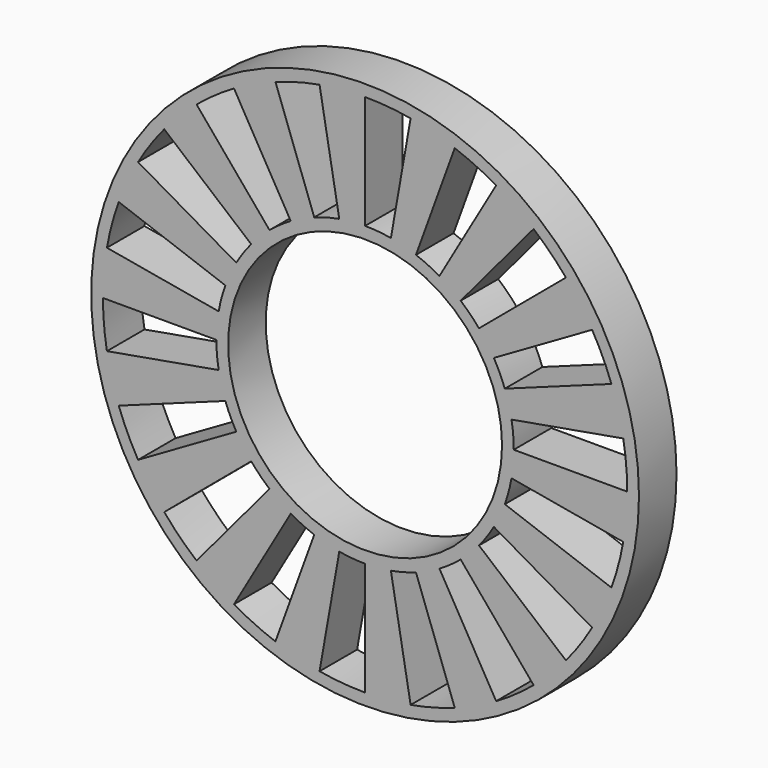
from build123d import *

# Parameters (mm, degrees)
F0_R     = 35
F0_R_2   = 17.5
F1_DEPTH = 6
F3_DEPTH = 6.001


with BuildPart() as f1:
    # F0 (on Front) → F1 (new body)
    with BuildSketch(Plane.XZ):
        Circle(F0_R)
        Circle(F0_R_2, mode=Mode.SUBTRACT)
    extrude(amount=F1_DEPTH)

    # F2 (on face) → F3 (cut, through all)
    with BuildSketch(Plane.XZ.offset(6)):
        with BuildLine():
            ThreePointArc((16.454483, -9.5), (15.563889, -10.897952), (14.554844, -12.212965))
            Line((14.554844, -12.212965), (25.662489, -21.533385))
            ThreePointArc((25.662489, -21.533385), (27.441593, -19.214811), (29.011851, -16.75))
            Line((29.011851, -16.75), (16.454483, -9.5))
        make_face()
        with BuildLine():
            ThreePointArc((18.711347, -3.299315), (18.352591, -4.917562), (17.85416, -6.498383))
            Line((17.85416, -6.498383), (31.479703, -11.457675))
            ThreePointArc((31.479703, -11.457675), (32.358515, -8.670438), (32.99106, -5.817214))
            Line((32.99106, -5.817214), (18.711347, -3.299315))
        make_face()
        with BuildLine():
            ThreePointArc((18.711347, 3.299315), (18.927699, 1.655959), (19, 0))
            Line((19, 0), (33.5, 0))
            ThreePointArc((33.5, 0), (33.372522, 2.919717), (32.99106, 5.817214))
            Line((32.99106, 5.817214), (18.711347, 3.299315))
        make_face()
        with BuildLine():
            ThreePointArc((16.454483, 9.5), (17.219848, 8.029747), (17.85416, 6.498383))
            Line((17.85416, 6.498383), (31.479703, 11.457675))
            ThreePointArc((31.479703, 11.457675), (30.361311, 14.157712), (29.011851, 16.75))
            Line((29.011851, 16.75), (16.454483, 9.5))
        make_face()
        with BuildLine():
            ThreePointArc((6.498383, 17.85416), (8.029747, 17.219848), (9.5, 16.454483))
            Line((9.5, 16.454483), (16.75, 29.011851))
            ThreePointArc((16.75, 29.011851), (14.157712, 30.361311), (11.457675, 31.479703))
            Line((11.457675, 31.479703), (6.498383, 17.85416))
        make_face()
        with BuildLine():
            ThreePointArc((12.212965, 14.554844), (13.435029, 13.435029), (14.554844, 12.212965))
            Line((14.554844, 12.212965), (25.662489, 21.533385))
            ThreePointArc((25.662489, 21.533385), (23.688077, 23.688077), (21.533385, 25.662489))
            Line((21.533385, 25.662489), (12.212965, 14.554844))
        make_face()
        with BuildLine():
            ThreePointArc((0, 19), (1.655959, 18.927699), (3.299315, 18.711347))
            Line((3.299315, 18.711347), (5.817214, 32.99106))
            ThreePointArc((5.817214, 32.99106), (2.919717, 33.372522), (0, 33.5))
            Line((0, 33.5), (0, 19))
        make_face()
        with BuildLine():
            ThreePointArc((-6.498383, 17.85416), (-4.917562, 18.352591), (-3.299315, 18.711347))
            Line((-3.299315, 18.711347), (-5.817214, 32.99106))
            ThreePointArc((-5.817214, 32.99106), (-8.670438, 32.358515), (-11.457675, 31.479703))
            Line((-11.457675, 31.479703), (-6.498383, 17.85416))
        make_face()
        with BuildLine():
            ThreePointArc((-12.212965, 14.554844), (-10.897952, 15.563889), (-9.5, 16.454483))
            Line((-9.5, 16.454483), (-16.75, 29.011851))
            ThreePointArc((-16.75, 29.011851), (-19.214811, 27.441593), (-21.533385, 25.662489))
            Line((-21.533385, 25.662489), (-12.212965, 14.554844))
        make_face()
        with BuildLine():
            ThreePointArc((-16.454483, 9.5), (-15.563889, 10.897952), (-14.554844, 12.212965))
            Line((-14.554844, 12.212965), (-25.662489, 21.533385))
            ThreePointArc((-25.662489, 21.533385), (-27.441593, 19.214811), (-29.011851, 16.75))
            Line((-29.011851, 16.75), (-16.454483, 9.5))
        make_face()
        with BuildLine():
            ThreePointArc((-18.711347, 3.299315), (-18.352591, 4.917562), (-17.85416, 6.498383))
            Line((-17.85416, 6.498383), (-31.479703, 11.457675))
            ThreePointArc((-31.479703, 11.457675), (-32.358515, 8.670438), (-32.99106, 5.817214))
            Line((-32.99106, 5.817214), (-18.711347, 3.299315))
        make_face()
        with BuildLine():
            ThreePointArc((-12.212965, -14.554844), (-13.435029, -13.435029), (-14.554844, -12.212965))
            Line((-14.554844, -12.212965), (-25.662489, -21.533385))
            ThreePointArc((-25.662489, -21.533385), (-23.688077, -23.688077), (-21.533385, -25.662489))
            Line((-21.533385, -25.662489), (-12.212965, -14.554844))
        make_face()
        with BuildLine():
            ThreePointArc((-18.711347, -3.299315), (-18.927699, -1.655959), (-19, 0))
            Line((-19, 0), (-33.5, 0))
            ThreePointArc((-33.5, 0), (-33.372522, -2.919717), (-32.99106, -5.817214))
            Line((-32.99106, -5.817214), (-18.711347, -3.299315))
        make_face()
        with BuildLine():
            ThreePointArc((-16.454483, -9.5), (-17.219848, -8.029747), (-17.85416, -6.498383))
            Line((-17.85416, -6.498383), (-31.479703, -11.457675))
            ThreePointArc((-31.479703, -11.457675), (-30.361311, -14.157712), (-29.011851, -16.75))
            Line((-29.011851, -16.75), (-16.454483, -9.5))
        make_face()
        with BuildLine():
            ThreePointArc((0, -19), (-1.655959, -18.927699), (-3.299315, -18.711347))
            Line((-3.299315, -18.711347), (-5.817214, -32.99106))
            ThreePointArc((-5.817214, -32.99106), (-2.919717, -33.372522), (0, -33.5))
            Line((0, -33.5), (0, -19))
        make_face()
        with BuildLine():
            ThreePointArc((-6.498383, -17.85416), (-8.029747, -17.219848), (-9.5, -16.454483))
            Line((-9.5, -16.454483), (-16.75, -29.011851))
            ThreePointArc((-16.75, -29.011851), (-14.157712, -30.361311), (-11.457675, -31.479703))
            Line((-11.457675, -31.479703), (-6.498383, -17.85416))
        make_face()
        with BuildLine():
            ThreePointArc((6.498383, -17.85416), (4.917562, -18.352591), (3.299315, -18.711347))
            Line((3.299315, -18.711347), (5.817214, -32.99106))
            ThreePointArc((5.817214, -32.99106), (8.670438, -32.358515), (11.457675, -31.479703))
            Line((11.457675, -31.479703), (6.498383, -17.85416))
        make_face()
        with BuildLine():
            ThreePointArc((12.212965, -14.554844), (10.897952, -15.563889), (9.5, -16.454483))
            Line((9.5, -16.454483), (16.75, -29.011851))
            ThreePointArc((16.75, -29.011851), (19.214811, -27.441593), (21.533385, -25.662489))
            Line((21.533385, -25.662489), (12.212965, -14.554844))
        make_face()
    extrude(amount=-F3_DEPTH, mode=Mode.SUBTRACT)


solid = f1.part
